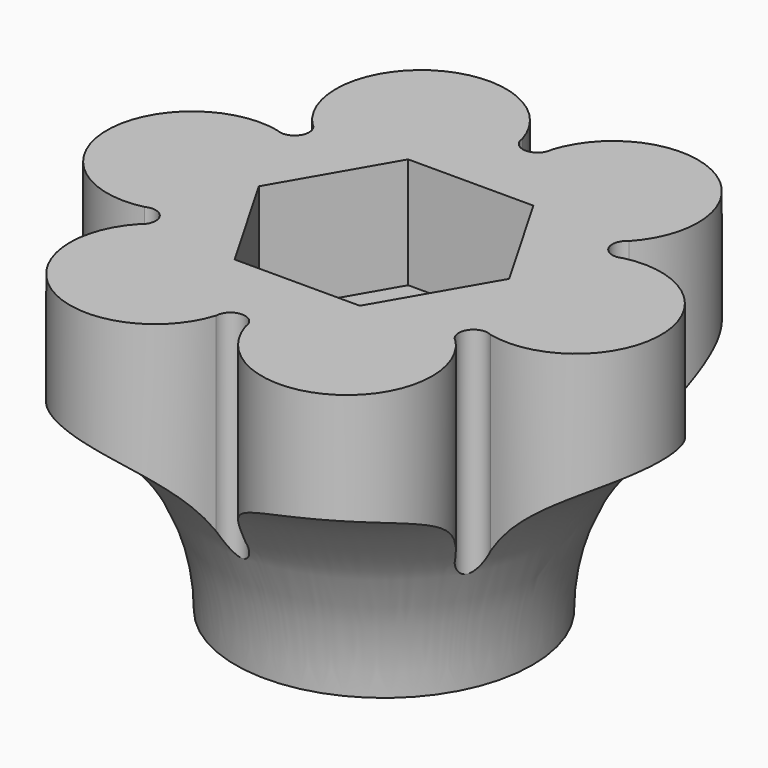
from build123d import *

# Parameters (mm, degrees)
SKETCH008_R     = 3.35
PAD004_DEPTH    = 15
POCKET002_DEPTH = 5


with BuildPart() as part:
    # Sketch008 → Pad004 (new body)
    with BuildSketch(Plane.XY):
        with BuildLine():
            ThreePointArc((7.1470904861, 4.890715447), (6.25, 10.8253175473), (0.6619385767, 8.6349196476))
            ThreePointArc((-0.6619385767, 8.6349196476), (0, 7.9978308267), (0.6619385767, 8.6349196476))
            ThreePointArc((-0.6619385767, 8.6349196476), (-6.25, 10.8253175473), (-7.1470904861, 4.890715447))
            ThreePointArc((-7.8090290628, 3.7442042006), (-6.9263246711, 3.9989154133), (-7.1470904861, 4.890715447))
            ThreePointArc((-7.8090290628, 3.7442042006), (-12.5, 0), (-7.8090290628, -3.7442042006))
            ThreePointArc((-7.1470904861, -4.890715447), (-6.9263246711, -3.9989154133), (-7.8090290628, -3.7442042006))
            ThreePointArc((-7.1470904861, -4.890715447), (-6.25, -10.8253175473), (-0.6619385767, -8.6349196476))
            ThreePointArc((0.6619385767, -8.6349196476), (0, -7.9978308267), (-0.6619385767, -8.6349196476))
            ThreePointArc((0.6619385767, -8.6349196476), (6.25, -10.8253175473), (7.1470904861, -4.890715447))
            ThreePointArc((7.8090290628, -3.7442042006), (6.9263246711, -3.9989154133), (7.1470904861, -4.890715447))
            ThreePointArc((7.8090290628, -3.7442042006), (12.5, 0), (7.8090290628, 3.7442042006))
            ThreePointArc((7.1470904861, 4.890715447), (6.9263246711, 3.9989154133), (7.8090290628, 3.7442042006))
        make_face()
        Circle(SKETCH008_R, mode=Mode.SUBTRACT)
    extrude(amount=PAD004_DEPTH)

    # Sketch009 (on Face15 of Pad004) → Pocket002 (cut)
    with BuildSketch(Plane.XY.offset(15)):
        Polygon((2.825, -4.8930435314), (5.65, 0), (2.825, 4.8930435314), (-2.825, 4.8930435314), (-5.65, 0), (-2.825, -4.8930435314), align=None)
    extrude(amount=-POCKET002_DEPTH, mode=Mode.SUBTRACT)

    # Sketch010 → Groove (revolve, cut)
    with BuildSketch(Plane.XZ):
        with BuildLine():
            ThreePointArc((12.5, 10), (8.2549337817, 5.7801384066), (6.7, 0))
            Line((6.7, 0), (13.5, 0))
            Line((13.5, 0), (13.5, 10))
            Line((13.5, 10), (12.5, 10))
        make_face()
    revolve(axis=Axis((0, 0, 0), (0, 0, 1)), mode=Mode.SUBTRACT)


solid = part.part
